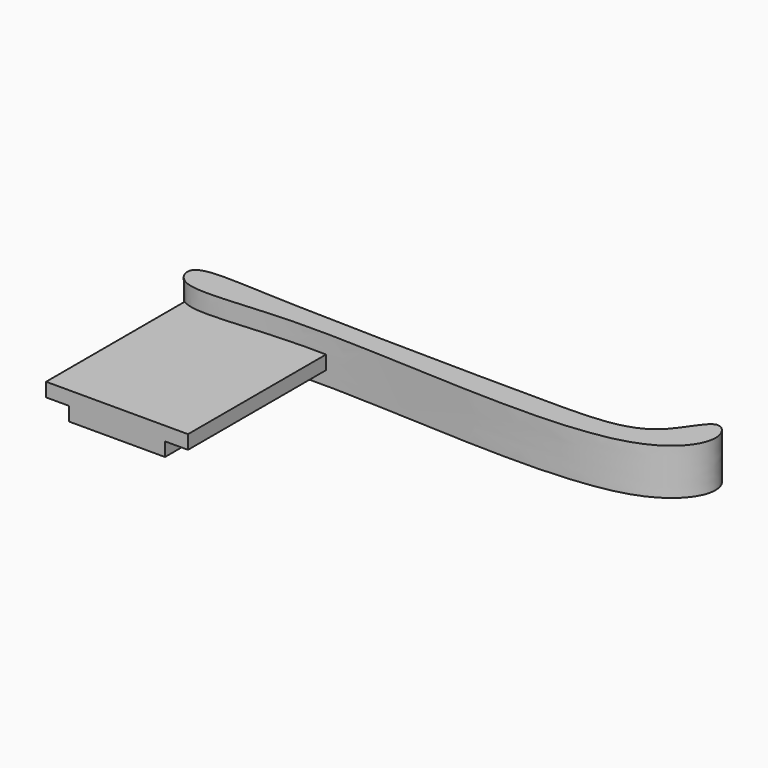
from build123d import *

# Parameters (mm, degrees)
F0_W     = 12.5
F0_H     = 22.5
F1_DEPTH = 1.8
F2_W     = 18.5
F2_H     = 22.5
F3_DEPTH = 1.8
F5_DEPTH = 6


with BuildPart() as f1:
    # F0 (on Top) → F1 (new body)
    with BuildSketch(Plane.XY):
        Rectangle(F0_W, F0_H)
    extrude(amount=F1_DEPTH)

    # F2 (on face) → F3 (join)
    with BuildSketch(Plane.XY.offset(1.8)):
        Rectangle(F2_W, F2_H)
    extrude(amount=F3_DEPTH)

    # F4 (on face) → F5 (join)
    with BuildSketch(Plane(origin=(0, 0, 0), x_dir=(1, 0, 0), z_dir=(0, 0, -1))):
        with BuildLine():
            add(Edge.make_bspline(
                [(-9.0976858254, -11.25), (-6.8706241368, -9.9187913919), (7.1020154957, -13.1264777363), (49.136212841, -7.4735594424), (55.8092531319, -17.9978619181), (52.3782028422, -21.8741470739), (49.1639717171, -13.6644720864), (34.9818160527, -13.5267746198), (1.0738841294, -13.9640607138), (-8.6895998134, -14.7917894133), (-10.7108542551, -13.408156573), (-9.9688245371, -11.7707163133), (-9.0976858254, -11.25)],
                knots=[0, 0, 0, 0, 0.1194684025, 0.3191223759, 0.4071730815, 0.4557294221, 0.5291989938, 0.642016349, 0.8237591227, 0.9157398997, 0.953268672, 1, 1, 1, 1], degree=3))
        make_face()
    extrude(amount=-F5_DEPTH)


solid = f1.part
